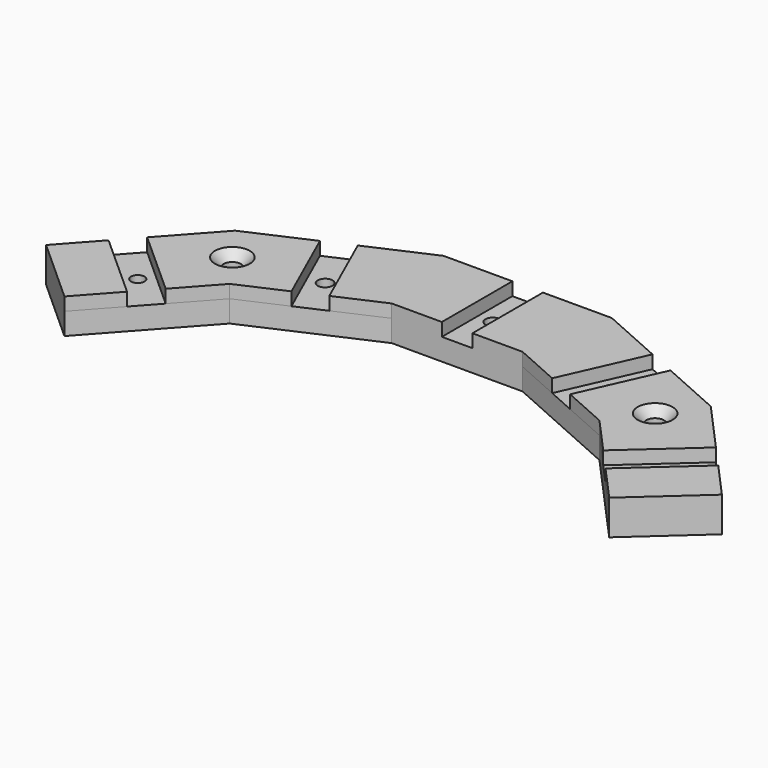
from build123d import *

# Parameters (mm, degrees)
F1_DEPTH       = 5
F3_DEPTH       = 3
F6_D           = 4
F6_CSINK_D     = 8
F6_CSINK_ANGLE = 90
F4_R           = 1.5456356791
F4_R_2         = 1.6934971507
F4_R_3         = 1.5922062155
F4_R_4         = 1.6882702818
F7_DEPTH       = 11.1
F9_DEPTH       = 2.5
F10_R          = 1.4984626167
F11_DEPTH      = 1
F12_R          = 1.6745754143
F13_DEPTH      = 1
F14_W          = 7
F14_H          = 20.1999992132
F14_R          = 1.6202134685
F15_DEPTH      = 1
F16_R          = 1.6358408112
F17_DEPTH      = 1
F18_R          = 1.6662774654
F19_DEPTH      = 1


with BuildPart() as f1:
    # F0 (on Top) → F1 (new body)
    with BuildSketch(Plane.XY):
        Polygon((-42.3623017311, 58.3067062123), (-14.9844143682, 70.4961270094), (14.9844143682, 70.4961270094), (42.3623017311, 58.3067062123), (62.4153622753, 36.0355262112), (77.4268871653, 49.5519639332), (54.5008190929, 75.0139420503), (19.2780567467, 90.6961262226), (-19.2780567467, 90.6961262226), (-54.5008190929, 75.0139420503), (-77.4268871653, 49.5519639332), (-62.4153622753, 36.0355262112), align=None)
    extrude(amount=F1_DEPTH)

    # F2 (on face) → F3 (join)
    with BuildSketch(Plane.XY.offset(5)):
        Polygon((19.2780567467, 90.6961262226), (3.5, 90.6961262226), (3.5, 70.4961270094), (14.9844143682, 70.4961270094), (25.532006503, 65.80003643), (33.7641456248, 84.2464955399), align=None)
        Polygon((-3.5, 70.4961270094), (-3.5, 90.6961262226), (-19.2780567467, 90.6961262226), (-33.7641456248, 84.2464955399), (-25.532006503, 65.80003643), (-14.9844143682, 70.4961270094), align=None)
        Polygon((54.5008190929, 75.0139420503), (40.1589641997, 81.3993472492), (31.9268219148, 62.9528811714), (42.3623017311, 58.3067062123), (50.1289961086, 49.6809182377), (65.1640507517, 63.1712235215), align=None)
        Polygon((77.4268871653, 49.5519639332), (69.8479569532, 57.9692186757), (54.8129021735, 44.4789135438), (62.4153622753, 36.0355262112), align=None)
        Polygon((-31.9268219148, 62.9528811714), (-40.1589641997, 81.3993472492), (-54.5008190929, 75.0139420503), (-65.1640507517, 63.1712235215), (-50.1289961086, 49.6809182377), (-42.3623017311, 58.3067062123), align=None)
        Polygon((-54.8129021735, 44.4789135438), (-69.8479569532, 57.9692186757), (-77.4268871653, 49.5519639332), (-62.4153622753, 36.0355262112), align=None)
        Polygon((-3.5, 70.4961270094), (-3.5, 90.6961262226), (-19.2780567467, 90.6961262226), (-33.7641456248, 84.2464955399), (-25.532006503, 65.80003643), (-14.9844143682, 70.4961270094), align=None)
    extrude(amount=F3_DEPTH)

    # F6 (through all)
    with Locations(Plane.XY.offset(8)):
        with Locations((-48.431560412, 66.6603241313), (48.431560412, 66.6603241313)):
            CounterSinkHole(F6_D / 2, F6_CSINK_D / 2, counter_sink_angle=F6_CSINK_ANGLE)

    # F4 (on face) → F7 (cut)
    with BuildSketch(Plane.XY.offset(5)):
        with BuildLine():
            ThreePointArc((1.6936241921, 80.7094499469), (1.197573151, 81.9070230979), (0, 82.403074139))
            Line((0, 82.403074139), (0, 79.0158257547))
            ThreePointArc((0, 79.0158257547), (1.197573151, 79.5118767958), (1.6936241921, 80.7094499469))
        make_face()
        with BuildLine():
            Line((0, 79.0158257547), (0, 82.403074139))
            ThreePointArc((0, 82.403074139), (-1.6936241921, 80.7094499469), (0, 79.0158257547))
        make_face()
        with Locations((-59.9788100952, 54.0051631818)):
            Circle(F4_R)
        with Locations((-32.8274907359, 73.7317513878)):
            Circle(F4_R_2)
        with Locations((32.8274907359, 73.7317513878)):
            Circle(F4_R_3)
        with Locations((59.9788100952, 54.0051631818)):
            Circle(F4_R_4)
    extrude(amount=-F7_DEPTH, mode=Mode.SUBTRACT)

    # F8 (on face) → F9 (cut)
    with BuildSketch(Plane(origin=(0, 0, 0), x_dir=(1, 0, 0), z_dir=(0, 0, -1))):
        Polygon((62.6226022883, -39.9899012252), (48.4079691697, -55.7768506604), (59.2578790327, -65.5461533813), (73.4725121513, -49.7592039462), align=None)
        Polygon((23.2004942383, -69.9030770993), (29.1388467156, -83.2408351397), (42.3623017311, -77.3533736479), (36.4239492538, -64.0156156075), align=None)
        Polygon((-10.046819225, -73.2961297035), (-10.046819225, -87.8961235285), (10.046819225, -87.8961235285), (10.046819225, -73.2961297035), (0, -73.2961297035), align=None)
        Polygon((-23.2004942383, -69.9030770993), (-36.4239492538, -64.0156156075), (-42.3623017311, -77.3533736479), (-29.1388467156, -83.2408351397), align=None)
        Polygon((-48.4079691697, -55.7768506604), (-62.6226022883, -39.9899012252), (-73.4725121513, -49.7592039462), (-59.2578790327, -65.5461533813), align=None)
    extrude(amount=-F9_DEPTH, mode=Mode.SUBTRACT)


with BuildPart() as f11:
    # F10 (on face) → F11 (new body)
    with BuildSketch(Plane.XY.offset(5)):
        Polygon((-50.1289961086, 49.6809182377), (-65.1640507517, 63.1712235215), (-69.8479569532, 57.9692186757), (-54.8129021735, 44.4789135438), align=None)
        with Locations((-59.9788100952, 54.0051631818)):
            Circle(F10_R, mode=Mode.SUBTRACT)
    extrude(amount=F11_DEPTH)


with BuildPart() as f13:
    # F12 (on face) → F13 (new body)
    with BuildSketch(Plane.XY.offset(5)):
        Polygon((-25.532006503, 65.80003643), (-33.7641487432, 84.2465025277), (-40.1589641997, 81.3993472492), (-31.9268219148, 62.9528811714), align=None)
        with Locations((-32.8274907359, 73.7317513878)):
            Circle(F12_R, mode=Mode.SUBTRACT)
    extrude(amount=F13_DEPTH)


with BuildPart() as f15:
    # F14 (on face) → F15 (new body)
    with BuildSketch(Plane.XY.offset(5)):
        with Locations((0, 80.596126616)):
            Rectangle(F14_W, F14_H)
        with Locations((0, 80.7094499469)):
            Circle(F14_R, mode=Mode.SUBTRACT)
    extrude(amount=F15_DEPTH)


with BuildPart() as f17:
    # F16 (on face) → F17 (new body)
    with BuildSketch(Plane.XY.offset(5)):
        Polygon((40.1589641997, 81.3993472492), (33.7641487432, 84.2465025277), (25.532006503, 65.80003643), (31.9268219148, 62.9528811714), align=None)
        with Locations((32.8274907359, 73.7317513878)):
            Circle(F16_R, mode=Mode.SUBTRACT)
    extrude(amount=F17_DEPTH)


with BuildPart() as f19:
    # F18 (on face) → F19 (new body)
    with BuildSketch(Plane.XY.offset(5)):
        Polygon((69.8479569532, 57.9692186757), (65.1640507517, 63.1712235215), (50.1289961086, 49.6809182377), (54.8129021735, 44.4789135438), align=None)
        with Locations((59.9788100952, 54.0051631818)):
            Circle(F18_R, mode=Mode.SUBTRACT)
    extrude(amount=F19_DEPTH)


solid = f1.part
